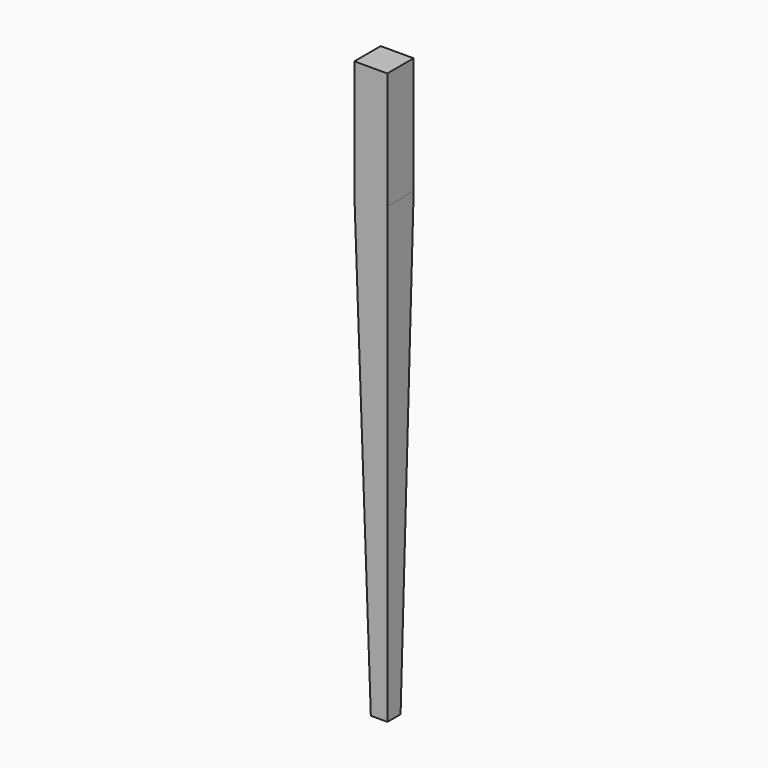
from build123d import *

# Parameters (mm, degrees)
F0_W     = 45
F0_H     = 45
F2_W     = 22.671414
F2_H     = 22.5
F4_DEPTH = 160


with BuildPart() as f3:
    # F0 (on Top) → F3 section 0
    with BuildSketch(Plane.XY):
        Rectangle(F0_W, F0_H)
    # F2 (on offset) → F3 section 1
    with BuildSketch(Plane.XY.offset(-620)):
        with Locations((11.335707, -11.25)):
            Rectangle(F2_W, F2_H)
    loft()

    # F0 (on Top) → F4 (join)
    with BuildSketch(Plane.XY):
        Rectangle(F0_W, F0_H)
    extrude(amount=F4_DEPTH)


solid = f3.part
